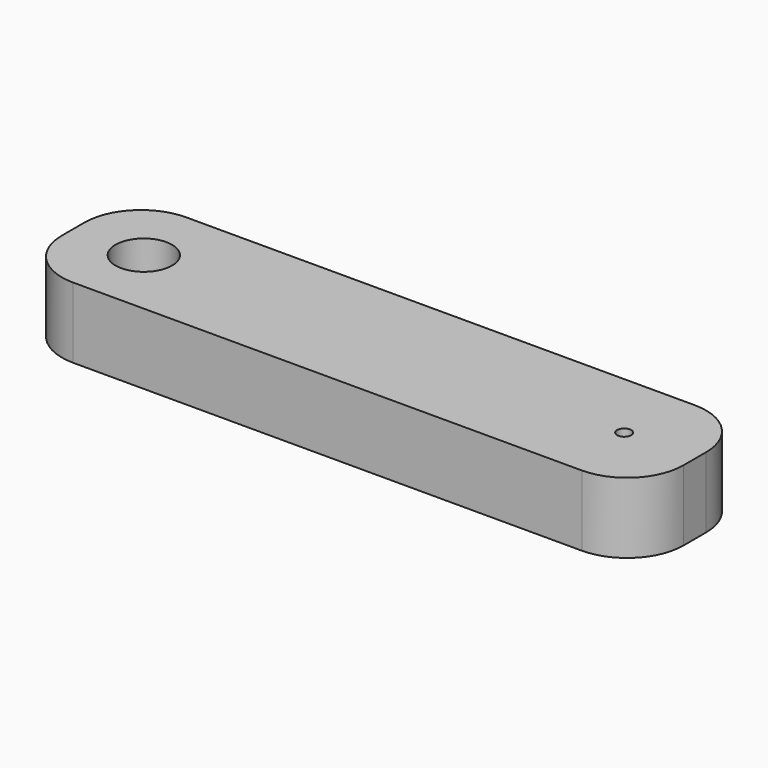
from build123d import *

# Parameters (mm, degrees)
PAD001_DEPTH = 4
SKETCH_W     = 44
SKETCH_H     = 10
SKETCH_R     = 2
SKETCH_R_2   = 0.5
PAD_DEPTH    = 5
FILLET_R     = 4


with BuildPart() as body001:
    # Sketch001 → Pad001 (new body)
    with BuildSketch(Plane.XY):
        Polygon((0.897343, 1.560377), (1.338059, 1.486472), (1.457743, 1.055929), (1.827866, 0.81173), (1.760844, 0.373401), (2, 0), (1.760844, -0.373401), (1.827866, -0.81173), (1.457743, -1.055929), (1.341095, -1.483734), (0.903715, -1.556695), (0.623475, -1.900336), (0.194127, -1.789501), (-0.201465, -1.989827), (-0.548876, -1.714274), (-0.991727, -1.736801), (-1.1974, -1.343962), (-1.611279, -1.184813), (-1.63981, -0.742308), (-1.953475, -0.428878), (-1.799954, -0.012879), (-1.959412, 0.400881), (-1.650264, 0.718768), (-1.628067, 1.161635), (-1.216508, 1.32669), (-1.016478, 1.722432), (-0.569861, 1.707413), (-0.221793, 1.987664), (0.179488, 1.791029), (0.611809, 1.904124), align=None)
    extrude(amount=PAD001_DEPTH)


with BuildPart() as body001_1:
    # Body001 placement: moved
    add(body001.part.moved(Location((17, 0, -1))))


with BuildPart() as cut:
    # Sketch → Pad (new body)
    with BuildSketch(Plane.XY):
        Rectangle(SKETCH_W, SKETCH_H)
        with Locations((-17, 0)):
            Circle(SKETCH_R, mode=Mode.SUBTRACT)
        with Locations((17, 0)):
            Circle(SKETCH_R_2, mode=Mode.SUBTRACT)
    extrude(amount=PAD_DEPTH)

    # Fillet
    fillet_edges = [cut.edges().sort_by_distance(p)[0] for p in [
        (-22, 5, 2.5),
        (-22, -5, 2.5),
        (22, -5, 2.5),
        (22, 5, 2.5),
    ]]
    fillet(fillet_edges, radius=FILLET_R)

    # Cut: cut Body001
    add(body001_1.part, mode=Mode.SUBTRACT)


solid = cut.part
